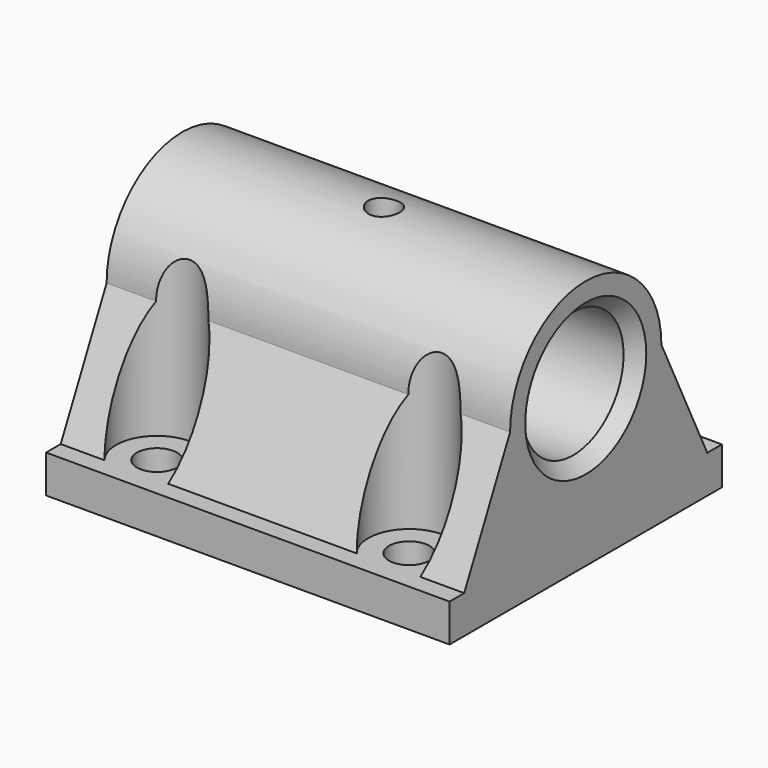
from build123d import *

# Parameters (mm, degrees)
SKETCH_W        = 32
SKETCH_H        = 27
SKETCH_R        = 1.65
PAD_DEPTH       = 3
SKETCH001_R     = 5
PAD001_DEPTH    = 32
SKETCH002_R     = 1.6
POCKET_DEPTH    = 19.894216
SKETCH003_R     = 3.25
POCKET001_DEPTH = 16.894216
CHAMFER_SIZE    = 1
CHAMFER001_SIZE = 1
SKETCH004_R     = 1.25
POCKET002_DEPTH = 20.001


with BuildPart() as part:
    # Sketch → Pad (new body)
    with BuildSketch(Plane.XY):
        Rectangle(SKETCH_W, SKETCH_H)
        with Locations((-10, -10)):
            Circle(SKETCH_R, mode=Mode.SUBTRACT)
        with Locations((-10, 10)):
            Circle(SKETCH_R, mode=Mode.SUBTRACT)
        with Locations((10, 10)):
            Circle(SKETCH_R, mode=Mode.SUBTRACT)
        with Locations((10, -10)):
            Circle(SKETCH_R, mode=Mode.SUBTRACT)
    extrude(amount=PAD_DEPTH)

    # Sketch001 (on Face2 of Pad) → Pad001 (join)
    with BuildSketch(Plane.YZ.offset(16)):
        with BuildLine():
            ThreePointArc((7.5, 12.393216), (0, 19.893216), (-7.5, 12.393216))
            Line((-7.5, 12.393216), (-13.5, 0))
            Line((-13.5, 0), (13.5, 0))
            Line((7.5, 12.393216), (13.5, 0))
        make_face()
        with Locations((0, 12.393216)):
            Circle(SKETCH001_R, mode=Mode.SUBTRACT)
    extrude(amount=-PAD001_DEPTH)

    # Sketch002 (on Face4 of Pad001) → Pocket (cut, through all)
    with BuildSketch(Plane(origin=(0, 0, 0), x_dir=(1, 0, 0), z_dir=(0, 0, -1))):
        with Locations((10, 10)):
            Circle(SKETCH002_R)
        with Locations((-10, 10)):
            Circle(SKETCH002_R)
        with Locations((-10, -10)):
            Circle(SKETCH002_R)
        with Locations((10, -10)):
            Circle(SKETCH002_R)
    extrude(amount=-POCKET_DEPTH, mode=Mode.SUBTRACT)

    # Sketch003 (on Face18 of Pocket) → Pocket001 (cut, through all)
    with BuildSketch(Plane.XY.offset(3)):
        with Locations((-10, 10)):
            Circle(SKETCH003_R)
        with Locations((10, 10)):
            Circle(SKETCH003_R)
        with Locations((-10, -10)):
            Circle(SKETCH003_R)
        with Locations((10, -10)):
            Circle(SKETCH003_R)
    extrude(amount=POCKET001_DEPTH, mode=Mode.SUBTRACT)

    # Chamfer
    chamfer_edges = [part.edges().sort_by_distance(p)[0] for p in [
        (16, -5, 12.393216),
    ]]
    chamfer(chamfer_edges, length=CHAMFER_SIZE)

    # Chamfer001
    chamfer001_edges = [part.edges().sort_by_distance(p)[0] for p in [
        (-16, -5, 12.393216),
    ]]
    chamfer(chamfer001_edges, length=CHAMFER001_SIZE)

    # Sketch004 → Pocket002 (cut, through all)
    with BuildSketch(Plane.XY.offset(20)):
        Circle(SKETCH004_R)
    extrude(amount=-POCKET002_DEPTH, mode=Mode.SUBTRACT)


solid = part.part
